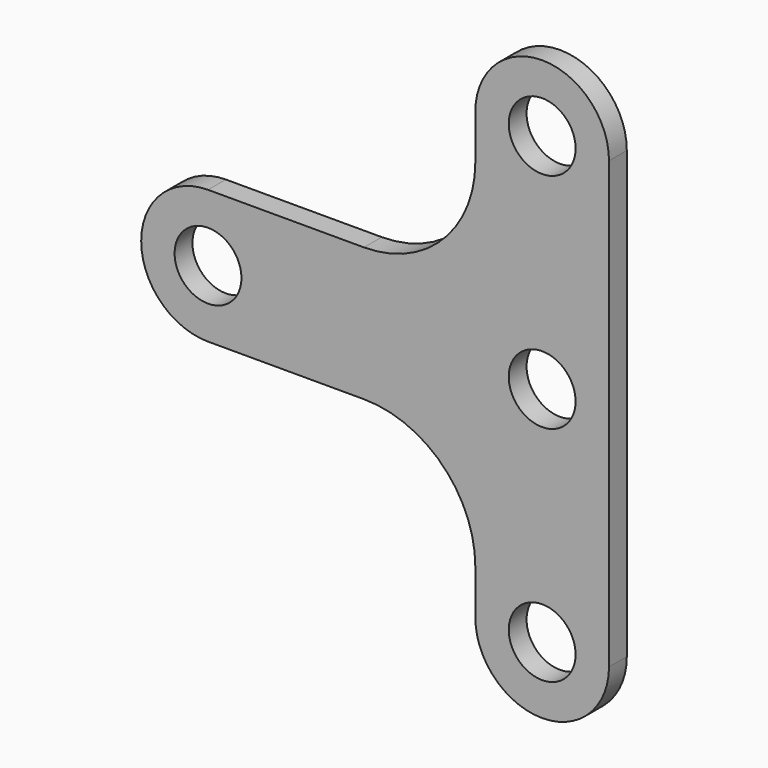
from build123d import *

# Parameters (mm, degrees)
F0_R     = 1.5
F1_DEPTH = 1


with BuildPart() as f1:
    # F0 (on Front) → F1 (new body)
    with BuildSketch(Plane.XZ):
        with BuildLine():
            ThreePointArc((3, 10), (0, 13), (-3, 10))
            Line((-3, 10), (-3, 8))
            ThreePointArc((-3, 8), (-4.464466, 4.464466), (-8, 3))
            Line((-8, 3), (-15, 3))
            ThreePointArc((-15, 3), (-18, 0), (-15, -3))
            Line((-15, -3), (-8, -3))
            ThreePointArc((-8, -3), (-4.464466, -4.464466), (-3, -8))
            Line((-3, -8), (-3, -10))
            ThreePointArc((-3, -10), (0, -13), (3, -10))
            Line((3, -10), (3, 10))
        make_face()
        with Locations((0, -10)):
            Circle(F0_R, mode=Mode.SUBTRACT)
        with Locations((-15, 0)):
            Circle(F0_R, mode=Mode.SUBTRACT)
        Circle(F0_R, mode=Mode.SUBTRACT)
        with Locations((0, 10)):
            Circle(F0_R, mode=Mode.SUBTRACT)
    extrude(amount=-F1_DEPTH)


solid = f1.part
